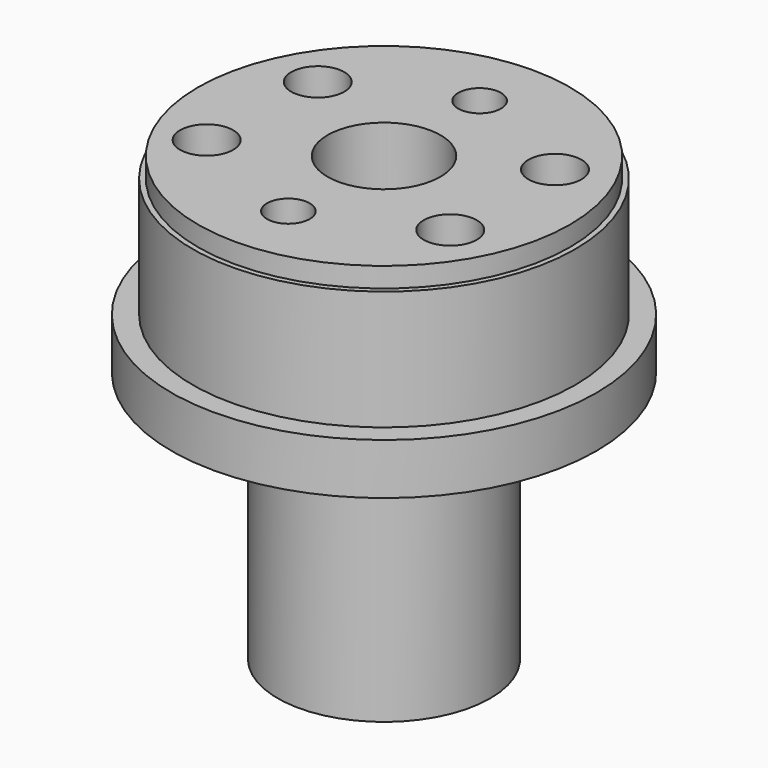
from build123d import *

# Parameters (mm, degrees)
F3_D      = 13.4874
F6_D      = 6.35
F6_DEPTH  = 6.35
F6_TIP    = 1.9077324654
F8_D      = 6.35
F8_DEPTH  = 6.35
F8_TIP    = 1.9077324654
F10_D     = 5.1054
F10_DEPTH = 19.05
F10_TIP   = 1.5338169022


with BuildPart() as f1:
    # F0 (on Front) → F1 (revolve)
    with BuildSketch(Plane.XZ):
        Polygon((0, 52.9336), (0, 0), (12.7, 0), (12.7, 30.1625), (25.4, 30.1625), (25.4, 36.2712), (22.86, 36.2712), (22.86, 50.5587), (22.225, 50.5587), (22.225, 52.9336), align=None)
    revolve(axis=Axis((0, 0, 26.4668), (0, 0, 1)))

    # F3 (through all)
    with Locations(Plane(origin=(0, 0, 0), x_dir=(1, 0, 0), z_dir=(0, 0, -1))):
        with Locations((0, 0)):
            Hole(F3_D / 2)

    # F6
    with Locations(Plane.XY.offset(52.9336)):
        with Locations((-14.1732, 7.8232), (14.1732, 7.8232)):
            Hole(F6_D / 2, depth=F6_DEPTH)
            with Locations((0, 0, -(F6_DEPTH + F6_TIP / 2))):  # 118° drill point
                Cone(0, F6_D / 2, F6_TIP, mode=Mode.SUBTRACT)

    # F8
    with Locations(Plane.XY.offset(52.9336)):
        with Locations((-14.9352, -7.8232), (14.1732, -7.8232)):
            Hole(F8_D / 2, depth=F8_DEPTH)
            with Locations((0, 0, -(F8_DEPTH + F8_TIP / 2))):  # 118° drill point
                Cone(0, F8_D / 2, F8_TIP, mode=Mode.SUBTRACT)

    # F10
    with Locations(Plane.XY.offset(52.9336)):
        with Locations((0, -14.2875), (0, 14.2875)):
            Hole(F10_D / 2, depth=F10_DEPTH)
            with Locations((0, 0, -(F10_DEPTH + F10_TIP / 2))):  # 118° drill point
                Cone(0, F10_D / 2, F10_TIP, mode=Mode.SUBTRACT)


solid = f1.part
